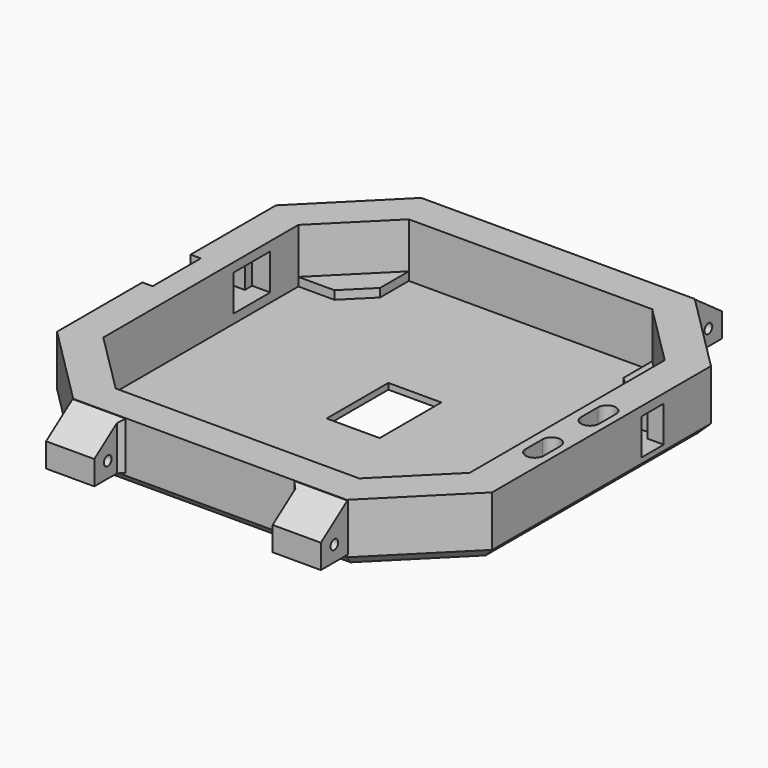
from build123d import *

# Parameters (mm, degrees)
PAD_DEPTH               = 5
POCKET_DEPTH            = 4.5
POCKET001_DEPTH         = 3
SKETCH005_W             = 2.9792998166
SKETCH005_H             = 2.1103373701
PAD001_DEPTH            = 0.7
POCKET002_DEPTH         = 2.5
POCKET003_DEPTH         = 3
PAD002_DEPTH            = 4
PAD002_MIRRORED_2_DEPTH = 4
SKETCH014_R             = 0.4
POCKET004_DEPTH         = 140.0632958807
SKETCH003_W             = 4.4
SKETCH003_H             = 6.4
POCKET005_DEPTH         = 0.501
CHAMFER_SIZE            = 0.8
CHAMFER001_SIZE         = 0.4


with BuildPart() as part:
    # Sketch001 → Pad (new body)
    with BuildSketch(Plane.XY):
        Polygon((18.05, 11.35), (11.35, 18.05), (-11.35, 18.05), (-18.05, 11.35), (-18.05, -11.35), (-11.35, -18.05), (11.35, -18.05), (18.05, -11.35), align=None)
    extrude(amount=PAD_DEPTH)

    # Sketch (on Face10 of Pad) → Pocket (cut)
    with BuildSketch(Plane.XY.offset(5)):
        Polygon((-15.2, 10.1176776962), (-15.2, -10.1176776962), (-10.1, -15.2), (10.1, -15.2), (15.2, -10.1176776962), (15.2, 10.1176776962), (10.1, 15.2), (-10.1, 15.2), align=None)
    extrude(amount=-POCKET_DEPTH, mode=Mode.SUBTRACT)

    # Sketch004 (on Face19 of Pocket) → Pocket001 (cut)
    with BuildSketch(Plane.XY.offset(1.25)):
        Polygon((15.2, 3.4), (15.2, 7.2), (16.7, 7.2), (16.7, 6.45), (18.2, 6.45), (18.2, 4.15), (16.7, 4.15), (16.7, 3.4), align=None)
        Polygon((-15.2, 3.4), (-15.2, 7.2), (-16.7, 7.2), (-16.7, 6.45), (-18.2, 6.45), (-18.2, 4.15), (-16.7, 4.15), (-16.7, 3.4), align=None)
    extrude(amount=POCKET001_DEPTH, mode=Mode.SUBTRACT)

    # Sketch005 (on Face31 of Pocket001) → Pad001 (join)
    with BuildSketch(Plane.XY.offset(0.5)):
        Polygon((-10.1, 15.2), (-10.1, 12.2207001834), (-12.2103373701, 10.1176776962), (-15.2, 10.1176776962), align=None)
        Polygon((12.2103373701, 10.1176776962), (15.2, 10.1176776962), (10.1, 15.2), (10.1, 12.2207001834), align=None)
        with Locations((4.6103500917, -14.1448313149)):
            Rectangle(SKETCH005_W, SKETCH005_H)
    extrude(amount=PAD001_DEPTH)

    # Sketch006 → Pocket002 (cut, symmetric)
    with BuildSketch(Plane.XZ):
        Polygon((-18.2, 5), (-18.2, 2), (-16.7, 3), (-17.2, 3.5), (-17.2, 5), align=None)
    extrude(amount=POCKET002_DEPTH, both=True, mode=Mode.SUBTRACT)

    # Sketch007 → Pocket003 (cut)
    with BuildSketch(Plane.XY.offset(5)):
        with BuildLine():
            ThreePointArc((15.95, 0.5), (16.7, -0.25), (17.45, 0.5))
            Line((17.45, 0.5), (17.45, 2.25))
            ThreePointArc((17.45, 2.25), (16.7000041345, 3.0000082691), (15.95, 2.2500082691))
            Line((15.95, 0.5), (15.95, 2.2500082691))
        make_face()
        with BuildLine():
            ThreePointArc((15.9543057832, -5.2499990728), (16.7043057832, -5.9999990728), (17.4543057832, -5.2499990728))
            Line((17.4543057832, -5.2499990728), (17.4543057832, -3.4999990728))
            ThreePointArc((17.4543057832, -3.4999990728), (16.7043053195, -2.75), (15.9543057832, -3.5))
            Line((15.9543057832, -5.2499990728), (15.9543057832, -3.5))
        make_face()
    extrude(amount=-POCKET003_DEPTH, mode=Mode.SUBTRACT)

    # Sketch008 → Pad002 (join)
    with BuildSketch(Plane.YZ.offset(7.4)):
        Polygon((-18, 1), (-18, 5), (-20.8, 3), (-20.8, 1), align=None)
    pad002 = extrude(amount=PAD002_DEPTH)

    # Sketch008 Mirrored 2 → Pad002 Mirrored 2 (add)
    with BuildSketch(Plane(origin=(7.4, 0, 0), x_dir=(0, -1, 0), z_dir=(-1, 0, 0))):
        Polygon((-18, 1), (-18, 5), (-20.8, 3), (-20.8, 1), align=None)
    pad002_mirrored_2 = extrude(amount=-PAD002_MIRRORED_2_DEPTH)

    # Mirrored001: Pad002, Pad002 Mirrored 2 across YZ
    add(pad002.mirror(Plane.YZ))
    add(pad002_mirrored_2.mirror(Plane.YZ))

    # Sketch014 (on Face59 of MultiTransform) → Pocket004 (cut, through all)
    with BuildSketch(Plane.YZ.offset(11.4)):
        with Locations((-19.4, 2.3)):
            Circle(SKETCH014_R)
    pocket004 = extrude(amount=-POCKET004_DEPTH, mode=Mode.SUBTRACT)

    # Mirrored002: Pocket004 across Sketch014 V_Axis
    add(pocket004.mirror(Plane(origin=(11.4, 0, 0), x_dir=(1, 0, 0), z_dir=(0, 1, 0))), mode=Mode.SUBTRACT)

    # Sketch003 (on Face67 of Mirrored002) → Pocket005 (cut, through all)
    with BuildSketch(Plane.XY.offset(0.5)):
        Rectangle(SKETCH003_W, SKETCH003_H)
    extrude(amount=-POCKET005_DEPTH, mode=Mode.SUBTRACT)

    # Chamfer
    chamfer_edges = [part.edges().sort_by_distance(p)[0] for p in [
        (-14.7, -14.7, 0),
        (-18.05, 0, 0),
        (0, 18.05, 0),
        (-14.7, 14.7, 0),
        (14.7, 14.7, 0),
        (18.05, 0, 0),
        (14.7, -14.7, 0),
        (0, -18.05, 0),
    ]]
    chamfer(chamfer_edges, length=CHAMFER_SIZE)

    # Chamfer001
    chamfer001_edges = [part.edges().sort_by_distance(p)[0] for p in [
        (7.4, 18.05, 2.982143),
        (-7.4, 18.05, 2.982143),
        (-7.4, -18.05, 2.982143),
        (7.4, -18.05, 2.982143),
    ]]
    chamfer(chamfer001_edges, length=CHAMFER001_SIZE)


solid = part.part
